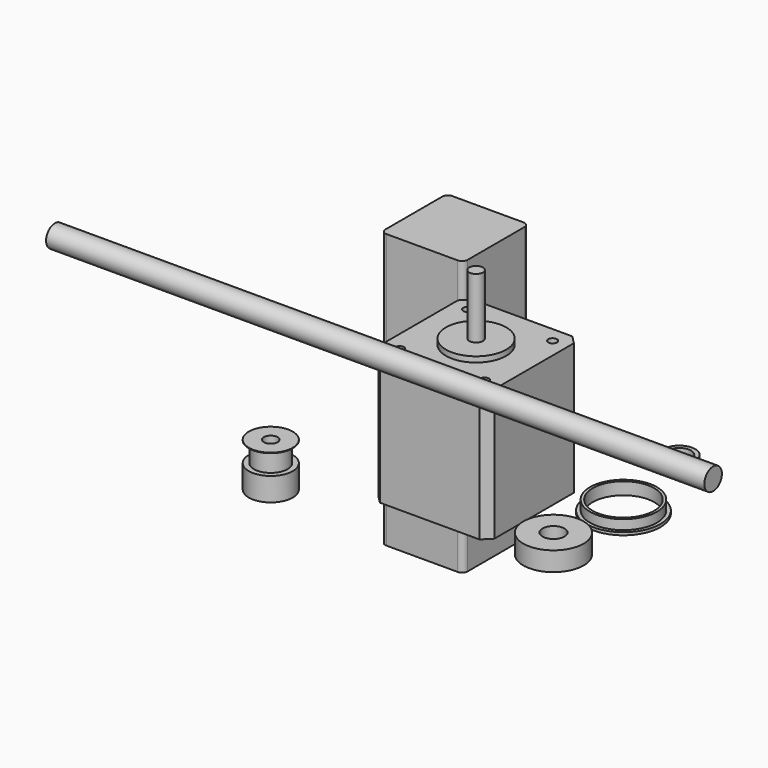
from build123d import *

# Parameters (mm, degrees)
F0_W      = 42.3
F0_H      = 42.3
F1_DEPTH  = 48
F2_SIZE   = 3
F3_R      = 11
F3_R_2    = 2.5
F4_DEPTH  = 2
F5_DEPTH  = 24
F6_R      = 6.1
F6_R_2    = 2.5
F7_DEPTH  = 16
F6_R_3    = 8
F8_DEPTH  = 8.5
F9_R      = 8
F9_R_2    = 6.1
F10_DEPTH = 0.2
F11_R     = 13.5
F11_R_2   = 12.2
F12_DEPTH = 1
F11_R_3   = 11.2
F13_DEPTH = 4.5
F14_R     = 11
F14_R_2   = 4
F15_DEPTH = 7
F16_R     = 5.75
F16_R_2   = 4.25
F17_DEPTH = 2.5
F18_R     = 4
F19_DEPTH = 120
F21_W     = 30
F21_H     = 30
F22_DEPTH = 50
F23_R     = 2


with BuildPart() as f1:
    # F0 (on Top) → F1 (new body)
    with BuildSketch(Plane.XY):
        Rectangle(F0_W, F0_H)
        with BuildLine():
            ThreePointArc((-15.5, 13.9), (-16.6313708499, 16.6313708499), (-13.9, 15.5))
            Line((-13.9, 15.5), (13.9, 15.5))
            ThreePointArc((13.9, 15.5), (15.5, 17.1), (17.1, 15.5))
            ThreePointArc((17.1, 15.5), (16.6313708499, 14.3686291501), (15.5, 13.9))
            Line((15.5, 13.9), (15.5, -13.9))
            ThreePointArc((15.5, -13.9), (16.6313708499, -14.3686291501), (17.1, -15.5))
            ThreePointArc((17.1, -15.5), (15.5, -17.1), (13.9, -15.5))
            Line((13.9, -15.5), (-13.9, -15.5))
            ThreePointArc((-13.9, -15.5), (-16.6313708499, -16.6313708499), (-15.5, -13.9))
            Line((-15.5, -13.9), (-15.5, 13.9))
        make_face(mode=Mode.SUBTRACT)
        with BuildLine():
            Line((13.9, 15.5), (-13.9, 15.5))
            ThreePointArc((-13.9, 15.5), (-14.3686291501, 14.3686291501), (-15.5, 13.9))
            Line((-15.5, 13.9), (-15.5, -13.9))
            ThreePointArc((-15.5, -13.9), (-14.3686291501, -14.3686291501), (-13.9, -15.5))
            Line((-13.9, -15.5), (13.9, -15.5))
            ThreePointArc((13.9, -15.5), (14.3686291501, -14.3686291501), (15.5, -13.9))
            Line((15.5, -13.9), (15.5, 13.9))
            ThreePointArc((15.5, 13.9), (14.3686291501, 14.3686291501), (13.9, 15.5))
        make_face()
    extrude(amount=F1_DEPTH)

    # F2
    f2_edges = [f1.edges().sort_by_distance(p)[0] for p in [
        (-21.15, 21.15, 24),
        (-21.15, -21.15, 24),
        (21.15, 21.15, 24),
        (21.15, -21.15, 24),
    ]]
    chamfer(f2_edges, length=F2_SIZE)

    # F3 (on face) → F4 (join)
    with BuildSketch(Plane.XY.offset(48)):
        Circle(F3_R)
        Circle(F3_R_2, mode=Mode.SUBTRACT)
    extrude(amount=F4_DEPTH)

    # F5 (add): a face of the model
    f5_faces = [f1.faces().sort_by_distance(p)[0] for p in [
        (0, 0, 48),
    ]]
    extrude(f5_faces, amount=F5_DEPTH)


with BuildPart() as f7:
    # F6 (on Top) → F7 (new body)
    with BuildSketch(Plane.XY):
        with Locations((-47.4868752062, -34.2161878943)):
            Circle(F6_R)
        with Locations((-47.4868752062, -34.2161878943)):
            Circle(F6_R_2, mode=Mode.SUBTRACT)
    extrude(amount=F7_DEPTH)

    # F6 (on Top) → F8 (join)
    with BuildSketch(Plane.XY):
        with Locations((-47.4868752062, -34.2161878943)):
            Circle(F6_R_3)
        with Locations((-47.4868752062, -34.2161878943)):
            Circle(F6_R, mode=Mode.SUBTRACT)
    extrude(amount=F8_DEPTH)

    # F9 (on face) → F10 (join)
    with BuildSketch(Plane.XY.offset(16)):
        with Locations((-47.4868752062, -34.2161878943)):
            Circle(F9_R)
        with Locations((-47.4868752062, -34.2161878943)):
            Circle(F9_R_2, mode=Mode.SUBTRACT)
    extrude(amount=-F10_DEPTH)


with BuildPart() as f12:
    # F11 (on Top) → F12 (new body)
    with BuildSketch(Plane.XY):
        with Locations((40.1412062347, 16.9690605253)):
            Circle(F11_R)
        with Locations((40.1412062347, 16.9690605253)):
            Circle(F11_R_2, mode=Mode.SUBTRACT)
    extrude(amount=F12_DEPTH)

    # F11 (on Top) → F13 (join)
    with BuildSketch(Plane.XY):
        with Locations((40.1412062347, 16.9690605253)):
            Circle(F11_R_2)
        with Locations((40.1412062347, 16.9690605253)):
            Circle(F11_R_3, mode=Mode.SUBTRACT)
    extrude(amount=F13_DEPTH)


with BuildPart() as f15:
    # F14 (on Top) → F15 (new body)
    with BuildSketch(Plane.XY):
        with Locations((40.3331406415, -15.1477409527)):
            Circle(F14_R)
        with Locations((40.3331406415, -15.1477409527)):
            Circle(F14_R_2, mode=Mode.SUBTRACT)
    extrude(amount=F15_DEPTH)


with BuildPart() as f17:
    # F16 (on Top) → F17 (new body)
    with BuildSketch(Plane.XY):
        with Locations((33.0033525825, 51.3892285526)):
            Circle(F16_R)
        with Locations((33.0033525825, 51.3892285526)):
            Circle(F16_R_2, mode=Mode.SUBTRACT)
    extrude(amount=F17_DEPTH)


with BuildPart() as f19:
    # F18 (on Right) → F19 (new body)
    with BuildSketch(Plane.YZ):
        with Locations((-41.9756695628, 61.0472224653)):
            Circle(F18_R)
    extrude(amount=F19_DEPTH)

    # F20: F19 across plane


with BuildPart() as f19_1:
    add(f19.part)
    add(f19.part.mirror(Plane.YZ))


with BuildPart() as f22:
    # F21 (on Top) → F22 (new body)
    with BuildSketch(Plane.XY):
        with Locations((-47.1746884286, 49.33844237)):
            Rectangle(F21_W, F21_H)
    extrude(amount=F22_DEPTH)

    # F23
    f23_edges = [f22.edges().sort_by_distance(p)[0] for p in [
        (-62.174688, 64.338442, 25),
        (-62.174688, 34.338442, 25),
        (-32.174688, 64.338442, 25),
        (-32.174688, 34.338442, 25),
    ]]
    fillet(f23_edges, radius=F23_R)

    # F24: F22 across plane


with BuildPart() as f22_1:
    add(f22.part)
    add(f22.part.mirror(Plane.XY))


solid = Compound([f1.part, f7.part, f12.part, f15.part, f17.part, f19_1.part, f22_1.part])
